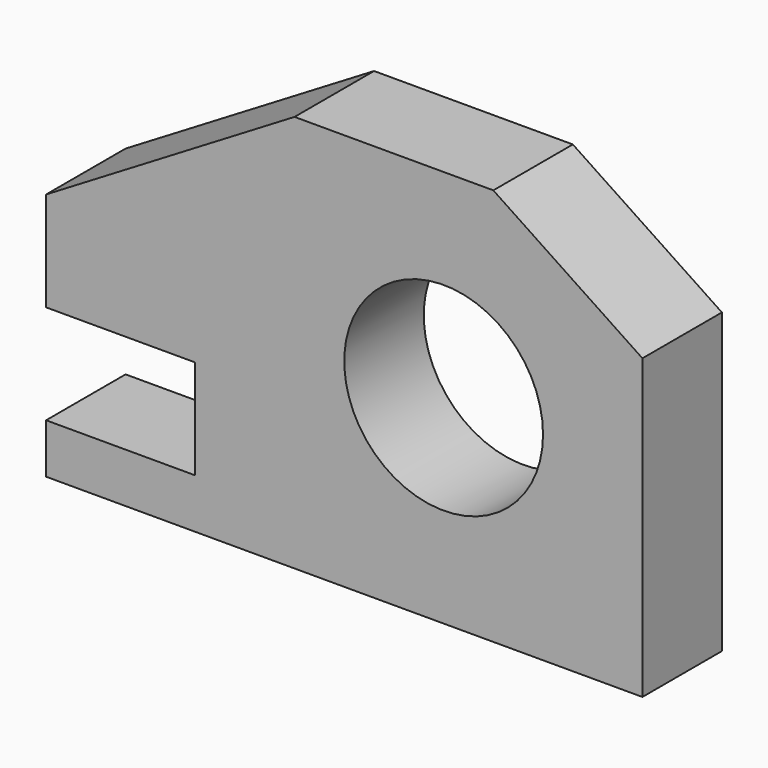
from build123d import *

# Parameters (mm, degrees)
F0_R     = 12.7
F1_DEPTH = 12.7


with BuildPart() as f1:
    # F0 (on Front) → F1 (new body)
    with BuildSketch(Plane.XZ):
        Polygon((25.4, -25.4), (25.4, 12.7), (6.35, 25.4), (-19.05, 25.4), (-50.8, 6.35), (-50.8, -6.35), (-31.75, -6.35), (-31.75, -19.05), (-50.8, -19.05), (-50.8, -25.4), align=None)
        Circle(F0_R, mode=Mode.SUBTRACT)
    extrude(amount=F1_DEPTH)


solid = f1.part
